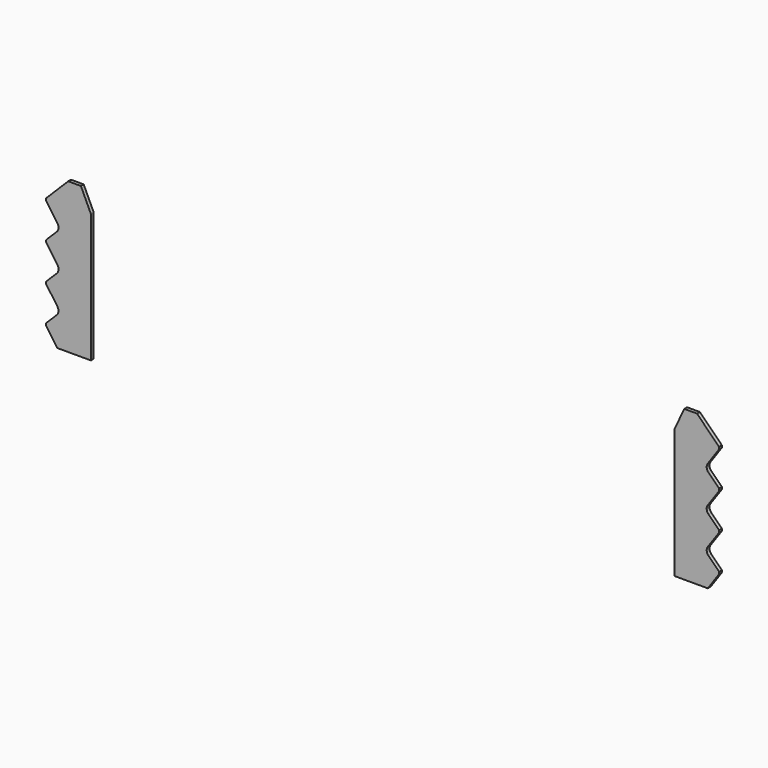
from build123d import *

# Parameters (mm, degrees)
F1_DEPTH = 2.54


with BuildPart() as f1:
    # F0 (on Front) → F1 (new body)
    with BuildSketch(Plane.XZ):
        with BuildLine():
            Line((211.5439, 93.490879), (211.5439, 0))
            Line((211.5439, 0), (235.839, 0))
            Line((235.839, 0), (244.0559, 11.734949))
            Line((244.0559, 11.734949), (244.0559, 13.258949))
            Line((244.0559, 13.258949), (236.314174, 21.000675))
            ThreePointArc((236.314174, 21.000675), (235.065893, 23.677624), (235.830363, 26.530665))
            Line((235.830363, 26.530665), (244.0559, 38.277949))
            Line((244.0559, 38.277949), (244.0559, 39.801949))
            Line((244.0559, 39.801949), (236.293253, 47.564596))
            ThreePointArc((236.293253, 47.564596), (235.416854, 48.828277), (235.0389, 50.318952))
            ThreePointArc((235.0389, 50.318952), (235.02854, 50.617883), (235.0389, 50.916814))
            ThreePointArc((235.0389, 50.916814), (235.275833, 52.058185), (235.809442, 53.094586))
            Line((235.809442, 53.094586), (244.0559, 64.871749))
            Line((244.0559, 64.871749), (244.0559, 66.395749))
            Line((244.0559, 66.395749), (236.441814, 74.009835))
            ThreePointArc((236.441814, 74.009835), (236.289641, 74.154784), (236.144692, 74.306957))
            ThreePointArc((236.144692, 74.306957), (235.382934, 75.48568), (235.0389, 76.846306))
            ThreePointArc((235.0389, 76.846306), (235.023432, 77.211683), (235.0389, 77.57706))
            ThreePointArc((235.0389, 77.57706), (235.247585, 78.585668), (235.688935, 79.516285))
            ThreePointArc((235.688935, 79.516285), (235.805257, 79.691316), (235.929948, 79.860488))
            Line((235.929948, 79.860488), (244.0559, 91.465549))
            Line((244.0559, 91.465549), (244.0559, 92.989549))
            Line((244.0559, 92.989549), (228.003249, 109.0422))
            Line((228.003249, 109.0422), (218.7956, 109.0422))
            Line((218.7956, 109.0422), (211.5439, 93.490879))
        make_face()
        with BuildLine():
            Line((-228.030076, 109.0422), (-244.0559, 93.016376))
            Line((-244.0559, 93.016376), (-244.0559, 92.989549))
            Line((-244.0559, 92.989549), (-244.0559, 91.465549))
            Line((-244.0559, 91.465549), (-235.929948, 79.860488))
            ThreePointArc((-235.929948, 79.860488), (-235.805257, 79.691316), (-235.688935, 79.516285))
            ThreePointArc((-235.688935, 79.516285), (-235.247585, 78.585668), (-235.0389, 77.57706))
            ThreePointArc((-235.0389, 77.57706), (-235.023432, 77.211683), (-235.0389, 76.846306))
            ThreePointArc((-235.0389, 76.846306), (-235.382934, 75.48568), (-236.144692, 74.306957))
            ThreePointArc((-236.144692, 74.306957), (-236.289641, 74.154784), (-236.441814, 74.009835))
            Line((-236.441814, 74.009835), (-244.0559, 66.395749))
            Line((-244.0559, 66.395749), (-244.0559, 64.871749))
            Line((-244.0559, 64.871749), (-235.809442, 53.094586))
            ThreePointArc((-235.809442, 53.094586), (-235.275833, 52.058185), (-235.0389, 50.916814))
            ThreePointArc((-235.0389, 50.916814), (-235.02854, 50.617883), (-235.0389, 50.318952))
            ThreePointArc((-235.0389, 50.318952), (-235.416854, 48.828277), (-236.293253, 47.564596))
            Line((-236.293253, 47.564596), (-244.0559, 39.801949))
            Line((-244.0559, 39.801949), (-244.0559, 38.277949))
            Line((-244.0559, 38.277949), (-235.830363, 26.530665))
            ThreePointArc((-235.830363, 26.530665), (-235.065893, 23.677624), (-236.314174, 21.000675))
            Line((-236.314174, 21.000675), (-244.0559, 13.258949))
            Line((-244.0559, 13.258949), (-244.0559, 11.734949))
            Line((-244.0559, 11.734949), (-235.839, 0))
            Line((-235.839, 0), (-211.5439, 0))
            Line((-211.5439, 0), (-211.5439, 93.490879))
            Line((-211.5439, 93.490879), (-218.7956, 109.0422))
            Line((-218.7956, 109.0422), (-228.030076, 109.0422))
        make_face()
        with BuildLine():
            Line((236.441814, 74.009835), (236.144692, 74.306957))
            ThreePointArc((236.144692, 74.306957), (236.289641, 74.154784), (236.441814, 74.009835))
        make_face()
        with BuildLine():
            ThreePointArc((-235.0389, 50.318952), (-235.02854, 50.617883), (-235.0389, 50.916814))
            Line((-235.0389, 50.916814), (-235.0389, 50.318952))
        make_face()
        with BuildLine():
            Line((235.0389, 76.846306), (235.0389, 77.57706))
            ThreePointArc((235.0389, 77.57706), (235.023432, 77.211683), (235.0389, 76.846306))
        make_face()
        with BuildLine():
            Line((235.688935, 79.516285), (235.929948, 79.860488))
            ThreePointArc((235.929948, 79.860488), (235.805257, 79.691316), (235.688935, 79.516285))
        make_face()
        with BuildLine():
            ThreePointArc((235.0389, 50.916814), (235.02854, 50.617883), (235.0389, 50.318952))
            Line((235.0389, 50.318952), (235.0389, 50.916814))
        make_face()
        with BuildLine():
            ThreePointArc((-236.441814, 74.009835), (-236.289641, 74.154784), (-236.144692, 74.306957))
            Line((-236.144692, 74.306957), (-236.441814, 74.009835))
        make_face()
        with BuildLine():
            ThreePointArc((-235.0389, 76.846306), (-235.023432, 77.211683), (-235.0389, 77.57706))
            Line((-235.0389, 77.57706), (-235.0389, 76.846306))
        make_face()
        with BuildLine():
            ThreePointArc((-235.688935, 79.516285), (-235.805257, 79.691316), (-235.929948, 79.860488))
            Line((-235.929948, 79.860488), (-235.688935, 79.516285))
        make_face()
    extrude(amount=F1_DEPTH)


solid = f1.part
